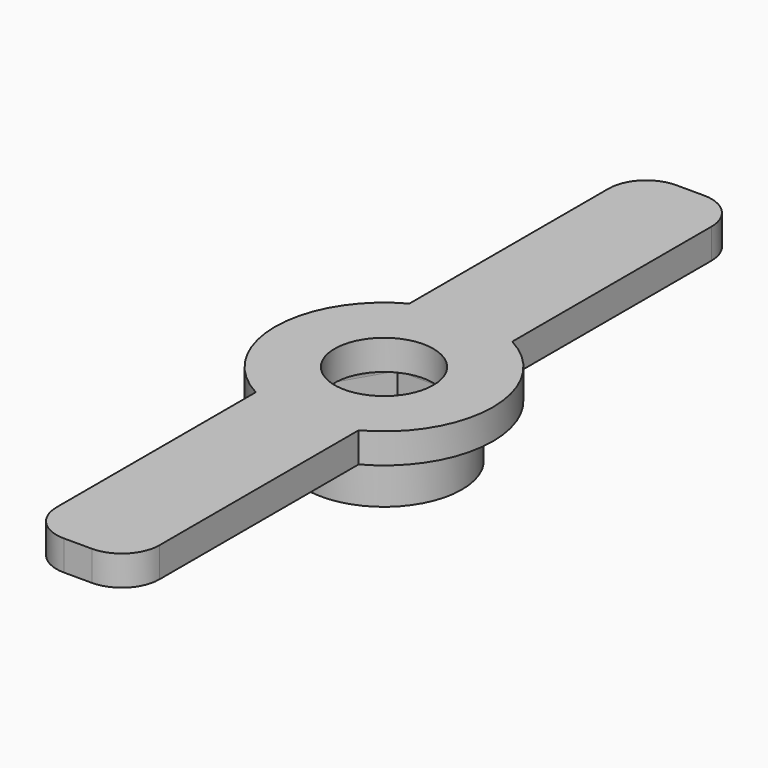
from build123d import *

# Parameters (mm, degrees)
F0_R     = 20.75
F1_DEPTH = 14
F3_DEPTH = 8
F4_R     = 13.133574
F5_DEPTH = 25
F6_R     = 2.5


with BuildPart() as f1:
    # F0 (on Top) → F1 (new body)
    with BuildSketch(Plane.XY):
        Circle(F0_R)
        Polygon((-18.619546, 0), (-9.309773, 16.125), (9.309773, 16.125), (18.619546, 0), (9.309773, -16.125), (-9.309773, -16.125), align=None, mode=Mode.SUBTRACT)
    extrude(amount=F1_DEPTH)

    # F2 (on face) → F3 (join)
    with BuildSketch(Plane.XY.offset(14)):
        with BuildLine():
            Line((-13.69534, 91.853356), (-13.69534, 25.562427))
            ThreePointArc((-13.69534, 25.562427), (-29, 0), (-13.69534, -25.562427))
            Line((-13.69534, -25.562427), (-13.69534, -91.853356))
            ThreePointArc((-13.69534, -91.853356), (-10.766407, -98.924424), (-3.69534, -101.853356))
            Line((-3.69534, -101.853356), (3.69534, -101.853356))
            ThreePointArc((3.69534, -101.853356), (10.766407, -98.924424), (13.69534, -91.853356))
            Line((13.69534, -91.853356), (13.69534, -25.562427))
            ThreePointArc((13.69534, -25.562427), (29, 0), (13.69534, 25.562427))
            Line((13.69534, 25.562427), (13.69534, 91.853356))
            ThreePointArc((13.69534, 91.853356), (10.766407, 98.924424), (3.69534, 101.853356))
            Line((3.69534, 101.853356), (-3.69534, 101.853356))
            ThreePointArc((-3.69534, 101.853356), (-10.766407, 98.924424), (-13.69534, 91.853356))
        make_face()
    extrude(amount=F3_DEPTH)

    # F4 (on face) → F5 (cut)
    with BuildSketch(Plane.XY.offset(22)):
        Circle(F4_R)
    extrude(amount=-F5_DEPTH, mode=Mode.SUBTRACT)

    # F6
    f6_edges = [f1.edges().sort_by_distance(p)[0] for p in [
        (0, 16.125, 14),
        (-13.96466, 8.0625, 14),
        (-13.96466, -8.0625, 14),
        (0, -16.125, 14),
        (13.96466, -8.0625, 14),
        (13.96466, 8.0625, 14),
        (-20.75, 0, 14),
    ]]
    fillet(f6_edges, radius=F6_R)


solid = f1.part
